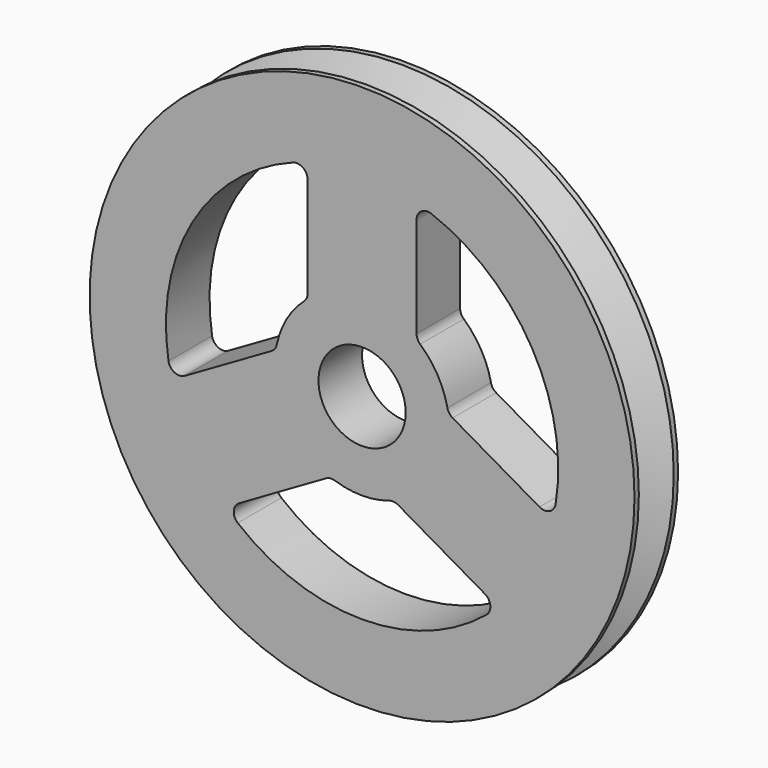
from build123d import *

# Parameters (mm, degrees)
F0_R     = 25
F0_R_2   = 4
F1_DEPTH = 2.5


with BuildPart() as f1:
    # F0 (on Front) → F1 (new body, symmetric)
    with BuildSketch(Plane.XZ):
        Circle(F0_R)
        with BuildLine():
            Line((-11.274977, -12.283114), (-3.309475, -7.684229))
            ThreePointArc((-3.309475, -7.684229), (-2.912357, -7.555561), (-2.497311, -7.600226))
            ThreePointArc((-2.497311, -7.600226), (0, -8), (2.497311, -7.600226))
            ThreePointArc((2.497311, -7.600226), (2.912357, -7.555561), (3.309475, -7.684229))
            Line((3.309475, -7.684229), (11.274977, -12.283114))
            ThreePointArc((11.274977, -12.283114), (11.771663, -13.067786), (11.4088, -13.922618))
            ThreePointArc((11.4088, -13.922618), (0, -18), (-11.4088, -13.922618))
            ThreePointArc((-11.4088, -13.922618), (-11.771663, -13.067786), (-11.274977, -12.283114))
        make_face(mode=Mode.SUBTRACT)
        with BuildLine():
            ThreePointArc((-17.761741, -2.919001), (-15.588457, 9), (-6.352941, 16.841619))
            ThreePointArc((-6.352941, 16.841619), (-5.431203, 16.728452), (-5, 15.905974))
            Line((-5, 15.905974), (-5, 6.708204))
            ThreePointArc((-5, 6.708204), (-5.087129, 6.299956), (-5.333333, 5.962848))
            ThreePointArc((-5.333333, 5.962848), (-6.928203, 4), (-7.830644, 1.637378))
            ThreePointArc((-7.830644, 1.637378), (-7.999486, 1.255605), (-8.309475, 0.976025))
            Line((-8.309475, 0.976025), (-16.274977, -3.62286))
            ThreePointArc((-16.274977, -3.62286), (-17.202866, -3.660666), (-17.761741, -2.919001))
        make_face(mode=Mode.SUBTRACT)
        Circle(F0_R_2, mode=Mode.SUBTRACT)
        with BuildLine():
            ThreePointArc((5.333333, 5.962848), (5.087129, 6.299956), (5, 6.708204))
            Line((5, 6.708204), (5, 15.905974))
            ThreePointArc((5, 15.905974), (5.431204, 16.728452), (6.352941, 16.841619))
            ThreePointArc((6.352941, 16.841619), (15.588457, 9), (17.761741, -2.919001))
            ThreePointArc((17.761741, -2.919001), (17.202866, -3.660666), (16.274977, -3.62286))
            Line((16.274977, -3.62286), (8.309475, 0.976025))
            ThreePointArc((8.309475, 0.976025), (7.999486, 1.255605), (7.830644, 1.637378))
            ThreePointArc((7.830644, 1.637378), (6.928203, 4), (5.333333, 5.962848))
        make_face(mode=Mode.SUBTRACT)
    extrude(amount=F1_DEPTH, both=True)

    # F2 (on Right) → F3 (revolve, cut)
    with BuildSketch(Plane.YZ):
        Polygon((-2, 25), (0, 21), (0, 25), align=None)
        Polygon((0, 25), (0, 21), (2, 25), align=None)
    revolve(axis=Axis((0, 0.001726, 0), (0, 1, 0)), mode=Mode.SUBTRACT)


solid = f1.part
